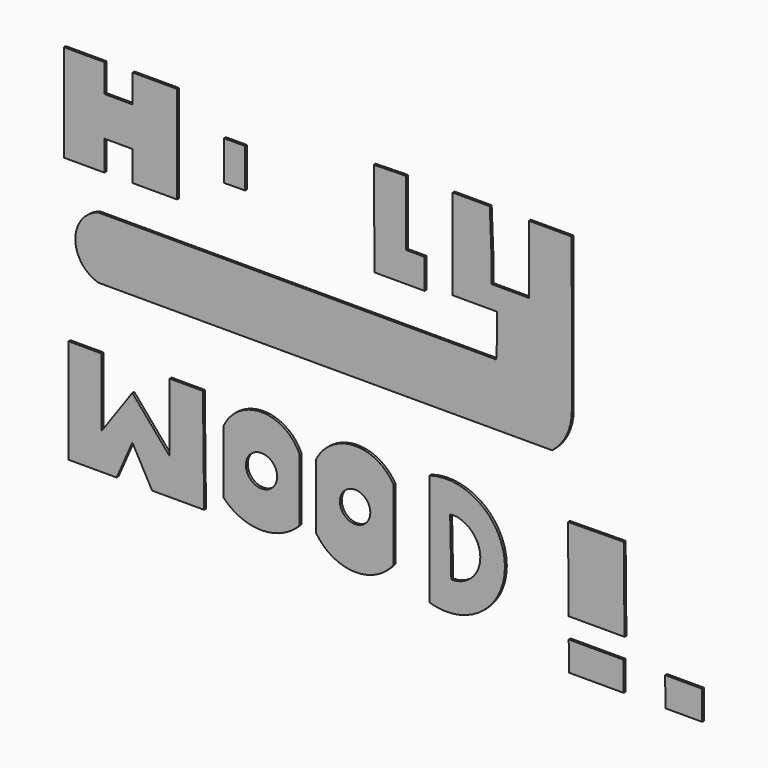
from build123d import *

# Parameters (mm, degrees)
F0_R     = 167.498177
F0_R_2   = 162.649982
F3_DEPTH = 25.4


with BuildPart() as f3:
    # F0 (on Front) → F3 (new body)
    with BuildSketch(Plane.XZ):
        Polygon((329.041988, 4642.670631), (329.041988, 4613.238811), (329.041988, 3602.222204), (763.278008, 3602.222204), (763.278008, 3922.709465), (1063.596725, 3922.709465), (1063.596725, 3602.222204), (1539.875388, 3602.222204), (1539.875388, 4642.670631), (1063.596725, 4642.670631), (1063.596725, 4342.184544), (763.278008, 4342.184544), (763.278008, 4642.670631), align=None)
        Polygon((3644.034624, 4613.238811), (3653.433323, 3602.222204), (4187.928677, 3602.222204), (4187.928677, 3922.709465), (3990.161419, 3922.709465), (3990.161419, 4620.517015), align=None)
        with BuildLine():
            Line((4488.181591, 4625.713825), (4488.181591, 4136.575222))
            Line((4488.181591, 4136.575222), (4488.181591, 3658.505917))
            Line((4488.181591, 3658.505917), (4964.460373, 3658.505917))
            Line((4964.460373, 3658.505917), (4964.460373, 3440.619469))
            Line((4964.460373, 3440.619469), (4953.875542, 3205.409527))
            Line((4953.875542, 3205.409527), (4485.037804, 3205.409527))
            Line((4485.037804, 3205.409527), (700.010717, 3205.409527))
            ThreePointArc((700.010717, 3205.409527), (451.240556, 2874.606327), (701.000392, 2544.549704))
            Line((701.000392, 2544.549704), (4940.819263, 2544.549704))
            Line((4940.819263, 2544.549704), (5552.659988, 2544.549704))
            ThreePointArc((5552.659988, 2544.549704), (5707.133118, 2737.843393), (5762.275696, 2979.056358))
            Line((5762.275696, 2979.056358), (5762.275696, 3364.673376))
            Line((5762.275696, 3364.673376), (5762.275696, 4136.575222))
            Line((5762.275696, 4136.575222), (5758.49247, 4625.713825))
            Line((5758.49247, 4625.713825), (5303.611755, 4625.713825))
            Line((5303.611755, 4625.713825), (5303.611755, 4136.575222))
            Line((5303.611755, 4136.575222), (5303.611755, 3899.145365))
            Line((5303.611755, 3899.145365), (4906.112671, 3899.145365))
            Line((4906.112671, 3899.145365), (4906.112671, 4098.373413))
            Line((4906.112671, 4098.373413), (4885.264874, 4625.713825))
            Line((4885.264874, 4625.713825), (4488.181591, 4625.713825))
        make_face()
        Polygon((731.197298, 1889.094234), (379.856974, 1889.094234), (379.856974, 773.494184), (893.658519, 773.494184), (1061.7764, 1157.753468), (1273.14949, 773.494184), (1829.451919, 773.494184), (1816.494226, 1889.094234), (1460.965991, 1889.094234), (1460.965991, 1157.753468), (1061.7764, 1625.553846), (731.197298, 1157.753468), align=None)
        with BuildLine():
            ThreePointArc((2851.892471, 1625.553846), (2443.346858, 1893.803047), (2034.801245, 1625.553846))
            Line((2034.801245, 1625.553846), (2034.801245, 958.158672))
            ThreePointArc((2034.801245, 958.158672), (2443.346858, 781.101922), (2851.892471, 958.158672))
            Line((2851.892471, 958.158672), (2851.892471, 1625.553846))
        make_face()
        with Locations((2443.346858, 1340.974988)):
            Circle(F0_R, mode=Mode.SUBTRACT)
        with BuildLine():
            ThreePointArc((3856.103897, 1669.215202), (3432.018231, 1901.072685), (3026.537895, 1638.028502))
            Line((3026.537895, 1638.028502), (3026.537895, 945.684016))
            ThreePointArc((3026.537895, 945.684016), (3433.173124, 713.359976), (3856.103897, 914.497316))
            Line((3856.103897, 914.497316), (3856.103897, 1669.215202))
        make_face()
        with Locations((3444.43965, 1326.161623)):
            Circle(F0_R_2, mode=Mode.SUBTRACT)
        with BuildLine():
            ThreePointArc((4242.818832, 683.715761), (5047.53394, 1282.500237), (4242.818832, 1881.284714))
            Line((4242.818832, 1881.284714), (4242.818832, 683.715761))
        make_face()
        with BuildLine():
            Line((4473.600388, 976.870716), (4461.125851, 1588.129878))
            Line((4461.125851, 1588.129878), (4529.736519, 1588.129878))
            ThreePointArc((4529.736519, 1588.129878), (4782.670202, 1256.693974), (4473.600388, 976.870716))
        make_face(mode=Mode.SUBTRACT)
        Polygon((2266.033411, 4342.184544), (2148.829103, 4342.184544), (2041.489124, 4342.184544), (2041.489124, 3920.894384), (2148.829103, 3922.709465), (2266.033411, 3922.709465), align=None)
        Polygon((6318.24748, 1931.628216), (5721.518993, 1924.946189), (5729.749866, 1039.55251), (6326.54047, 1039.55251), align=None)
        Polygon((6315.350744, 820.775208), (5729.749866, 820.937216), (5732.648108, 509.173737), (6318.24748, 509.173737), align=None)
        Polygon((7154.56225, 820.775208), (6761.110306, 820.775208), (6764.599547, 509.173737), (7158.051491, 509.173737), align=None)
    extrude(amount=F3_DEPTH)


solid = f3.part
